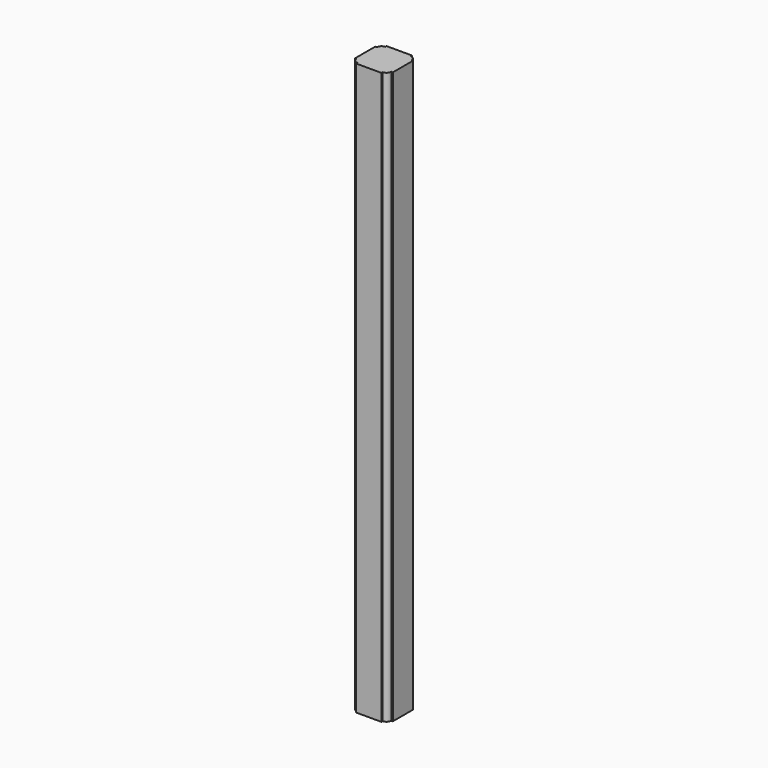
from build123d import *

# Parameters (mm, degrees)
F1_DEPTH = 2298.7


with BuildPart() as f1:
    # F0 (on Top) → F1 (new body)
    with BuildSketch(Plane.XY):
        with BuildLine():
            Line((-50.8, 0), (50.8, 0))
            Line((50.8, 0), (50.8, 6.35))
            ThreePointArc((50.8, 6.35), (64.270384, 11.929616), (69.85, 25.4))
            Line((69.85, 25.4), (76.2, 25.4))
            Line((76.2, 25.4), (76.2, 127))
            Line((76.2, 127), (69.85, 127))
            ThreePointArc((69.85, 127), (64.270384, 140.470384), (50.8, 146.05))
            Line((50.8, 146.05), (50.8, 152.4))
            Line((50.8, 152.4), (-50.8, 152.4))
            Line((-50.8, 152.4), (-50.8, 146.05))
            ThreePointArc((-50.8, 146.05), (-64.270384, 140.470384), (-69.85, 127))
            Line((-69.85, 127), (-76.2, 127))
            Line((-76.2, 127), (-76.2, 25.4))
            Line((-76.2, 25.4), (-69.85, 25.4))
            ThreePointArc((-69.85, 25.4), (-64.270384, 11.929616), (-50.8, 6.35))
            Line((-50.8, 6.35), (-50.8, 0))
        make_face()
    extrude(amount=F1_DEPTH)


solid = f1.part
